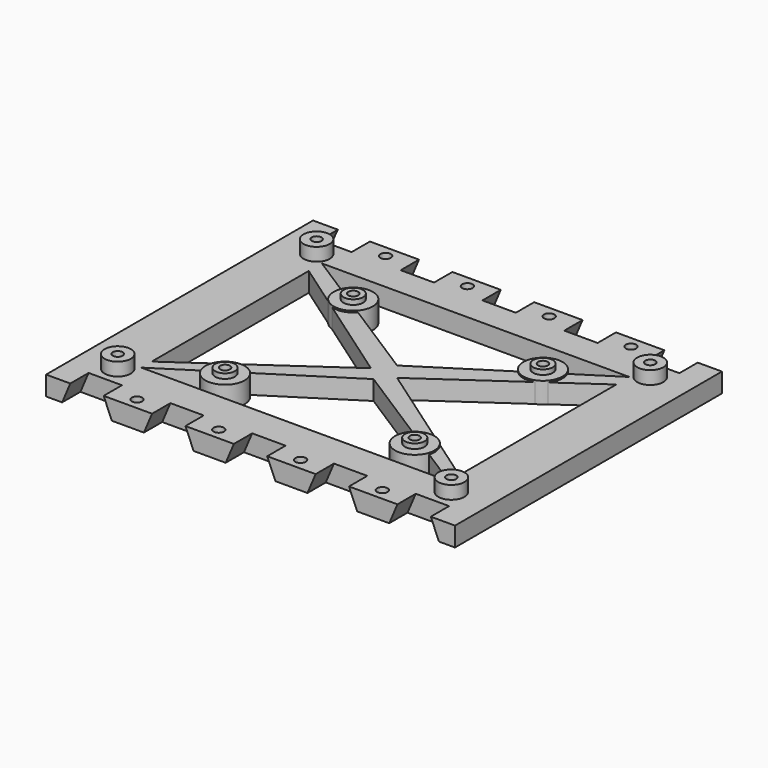
from build123d import *

# Parameters (mm, degrees)
SKETCH_W          = 125
SKETCH_H          = 102
PAD_DEPTH         = 5.9
POCKET_DEPTH      = 7
POCKET001_DEPTH   = 7
POCKET003_DEPTH   = 6
POCKET004_DEPTH   = 6
SKETCH008_R       = 4
PAD002_DEPTH      = 4
SKETCH009_R       = 1.5
POCKET005_DEPTH   = 9
SKETCH010_R       = 6
PAD003_DEPTH      = 0.5
PAD003_DEPTH_BACK = 5.9
SKETCH011_R       = 3
PAD004_DEPTH      = 2
SKETCH012_R       = 1.5
POCKET006_DEPTH   = 8
SKETCH013_R       = 1.6
POCKET007_DEPTH   = 5.901


with BuildPart() as part:
    # Sketch → Pad (new body)
    with BuildSketch(Plane.XY):
        with Locations((62.5, 51)):
            Rectangle(SKETCH_W, SKETCH_H)
    extrude(amount=PAD_DEPTH)

    # Sketch001 (on Face3 of Pad) → Pocket (cut)
    with BuildSketch(Plane.XZ):
        Polygon((7.4, 5.9), (17.6, 5.9), (20.1, 0), (4.9, 0), align=None)
        Polygon((32.4, 5.9), (42.6, 5.9), (45.1, 0), (29.9, 0), align=None)
        Polygon((57.4, 5.9), (67.6, 5.9), (70.1, 0), (54.9, 0), align=None)
        Polygon((82.4, 5.9), (92.6, 5.9), (95.1, 0), (79.9, 0), align=None)
        Polygon((107.4, 5.9), (117.6, 5.9), (120.1, 0), (104.9, 0), align=None)
    extrude(amount=-POCKET_DEPTH, mode=Mode.SUBTRACT)

    # Sketch003 (on Face1 of Pocket) → Pocket001 (cut)
    with BuildSketch(Plane(origin=(0, 102, 0), x_dir=(-1, 0, 0), z_dir=(0, 1, 0))):
        Polygon((-117.6, 5.9), (-107.4, 5.9), (-104.9, 0), (-120.1, 0), align=None)
        Polygon((-92.6, 5.9), (-82.4, 5.9), (-79.9, 0), (-95.1, 0), align=None)
        Polygon((-67.6, 5.9), (-57.4, 5.9), (-54.9, 0), (-70.1, 0), align=None)
        Polygon((-42.6, 5.9), (-32.4, 5.9), (-29.9, 0), (-45.1, 0), align=None)
        Polygon((-17.4, 5.9), (-7.6, 5.9), (-4.9, 0), (-20.1, 0), align=None)
    extrude(amount=-POCKET001_DEPTH, mode=Mode.SUBTRACT)

    # Sketch006 → Pocket003 (cut)
    with BuildSketch(Plane(origin=(0, 0, 0), x_dir=(1, 0, 0), z_dir=(0, 0, -1))):
        Polygon((15.5, -17), (109.5, -17), (62.5, -47), align=None)
        Polygon((15.5, -86), (109.5, -86), (62.5, -56), align=None)
    extrude(amount=-POCKET003_DEPTH, mode=Mode.SUBTRACT)

    # Sketch007 (on Face4 of Pocket003) → Pocket004 (cut)
    with BuildSketch(Plane.XY.offset(5.9)):
        Polygon((15.5, 81), (15.5, 21), (58.5, 51), align=None)
        Polygon((109.5, 81), (109.5, 21), (66.5, 51), align=None)
    extrude(amount=-POCKET004_DEPTH, mode=Mode.SUBTRACT)

    # Sketch008 (on Face4 of Pocket004) → Pad002 (join)
    with BuildSketch(Plane.XY.offset(5.9)):
        with Locations((11.5, 89)):
            Circle(SKETCH008_R)
        with Locations((113.5, 89)):
            Circle(SKETCH008_R)
        with Locations((11.5, 13)):
            Circle(SKETCH008_R)
        with Locations((113.5, 13)):
            Circle(SKETCH008_R)
    extrude(amount=PAD002_DEPTH)

    # Sketch009 (on Face65 of Pad002) → Pocket005 (cut)
    with BuildSketch(Plane.XY.offset(9.9)):
        with Locations((11.5, 13)):
            Circle(SKETCH009_R)
        with Locations((11.5, 89)):
            Circle(SKETCH009_R)
        with Locations((113.5, 89)):
            Circle(SKETCH009_R)
        with Locations((113.5, 13)):
            Circle(SKETCH009_R)
    extrude(amount=-POCKET005_DEPTH, mode=Mode.SUBTRACT)

    # Sketch010 (on Face4 of Pocket005) → Pad003 (join, two sides)
    with BuildSketch(Plane.XY.offset(5.9)) as pad003_sk:
        with Locations((33.5, 75.5)):
            Circle(SKETCH010_R)
        with Locations((91.5, 75.5)):
            Circle(SKETCH010_R)
        with Locations((33.5, 26.5)):
            Circle(SKETCH010_R)
        with Locations((91.5, 26.5)):
            Circle(SKETCH010_R)
    extrude(amount=PAD003_DEPTH)
    extrude(pad003_sk.sketch, amount=-PAD003_DEPTH_BACK)

    # Sketch011 (on Face4 of Pad003) → Pad004 (join)
    with BuildSketch(Plane.XY.offset(5.9)):
        with Locations((33.5, 75.5)):
            Circle(SKETCH011_R)
        with Locations((91.5, 75.5)):
            Circle(SKETCH011_R)
        with Locations((33.5, 26.5)):
            Circle(SKETCH011_R)
        with Locations((91.5, 26.5)):
            Circle(SKETCH011_R)
    extrude(amount=PAD004_DEPTH)

    # Sketch012 (on Face108 of Pad004) → Pocket006 (cut)
    with BuildSketch(Plane.XY.offset(7.9)):
        with Locations((91.5, 75.5)):
            Circle(SKETCH012_R)
        with Locations((91.5, 26.5)):
            Circle(SKETCH012_R)
        with Locations((33.5, 26.5)):
            Circle(SKETCH012_R)
        with Locations((33.5, 75.5)):
            Circle(SKETCH012_R)
    extrude(amount=-POCKET006_DEPTH, mode=Mode.SUBTRACT)

    # Sketch013 (on Face4 of Pocket006) → Pocket007 (cut, through all)
    with BuildSketch(Plane.XY.offset(5.9)):
        with Locations((25, 3.5)):
            Circle(SKETCH013_R)
        with Locations((50, 3.5)):
            Circle(SKETCH013_R)
        with Locations((75, 3.5)):
            Circle(SKETCH013_R)
        with Locations((100, 3.5)):
            Circle(SKETCH013_R)
        with Locations((25, 98.5)):
            Circle(SKETCH013_R)
        with Locations((50, 98.5)):
            Circle(SKETCH013_R)
        with Locations((75, 98.5)):
            Circle(SKETCH013_R)
        with Locations((100, 98.5)):
            Circle(SKETCH013_R)
    extrude(amount=-POCKET007_DEPTH, mode=Mode.SUBTRACT)


solid = part.part
